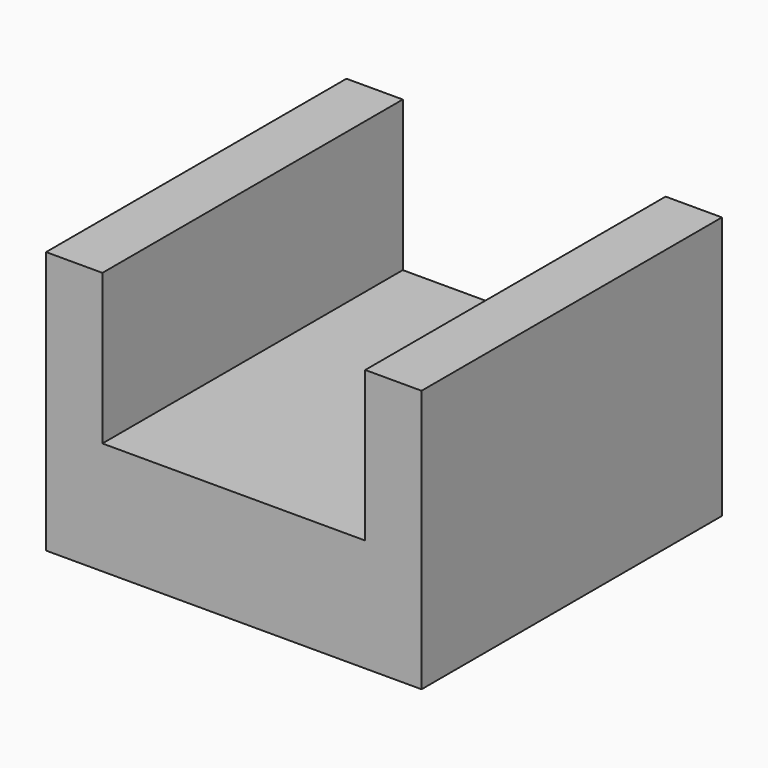
from build123d import *

# Parameters (mm, degrees)
F0_W     = 15
F0_H     = 40
F1_DEPTH = 50


with BuildPart() as f1:
    # F0 (on Front) → F1 (new body, symmetric)
    with BuildSketch(Plane.XZ):
        with Locations((-42.5, 32.257157)):
            Rectangle(F0_W, F0_H)
        Polygon((-35, 12.257157), (-50, 12.257157), (-50, -17.742843), (50, -17.742843), (50, 12.257157), (35, 12.257157), align=None)
        with Locations((42.5, 32.257157)):
            Rectangle(F0_W, F0_H)
    extrude(amount=F1_DEPTH, both=True)


solid = f1.part
